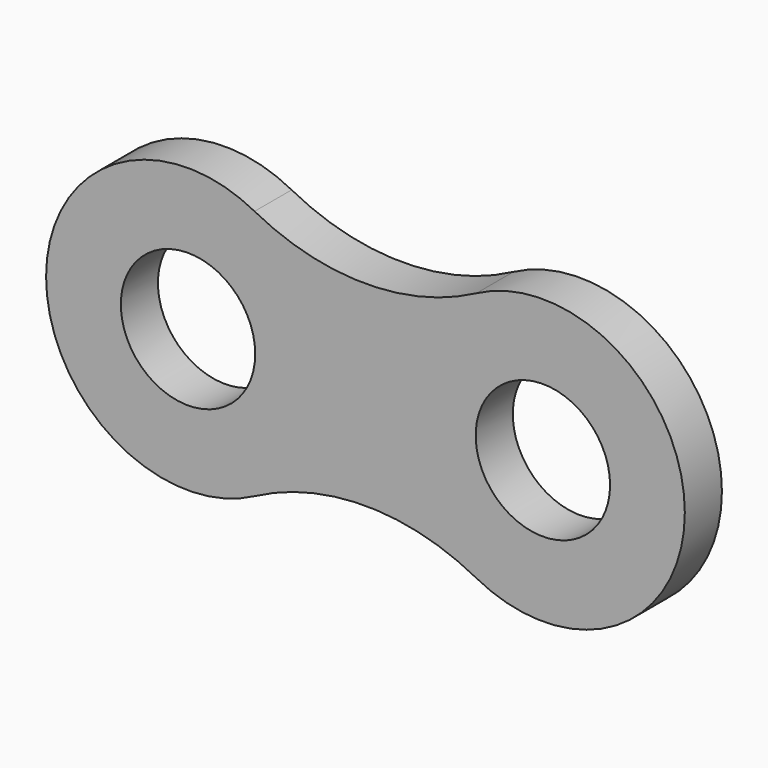
from build123d import *

# Parameters (mm, degrees)
F0_R     = 1.8034
F1_DEPTH = 1.2446


with BuildPart() as f1:
    # F0 (on Front) → F1 (new body)
    with BuildSketch(Plane.XZ):
        with BuildLine():
            ThreePointArc((7.7390625, 3.3654906397), (4.7625, 2.6246417059), (1.7859375, 3.3654906397))
            ThreePointArc((1.7859375, 3.3654906397), (-3.81, 0), (1.7859375, -3.3654906397))
            ThreePointArc((1.7859375, -3.3654906397), (4.7625, -2.6246417059), (7.7390625, -3.3654906397))
            ThreePointArc((7.7390625, -3.3654906397), (13.335, 0), (7.7390625, 3.3654906397))
        make_face()
        Circle(F0_R, mode=Mode.SUBTRACT)
        with Locations((9.525, 0)):
            Circle(F0_R, mode=Mode.SUBTRACT)
    extrude(amount=F1_DEPTH)


solid = f1.part
